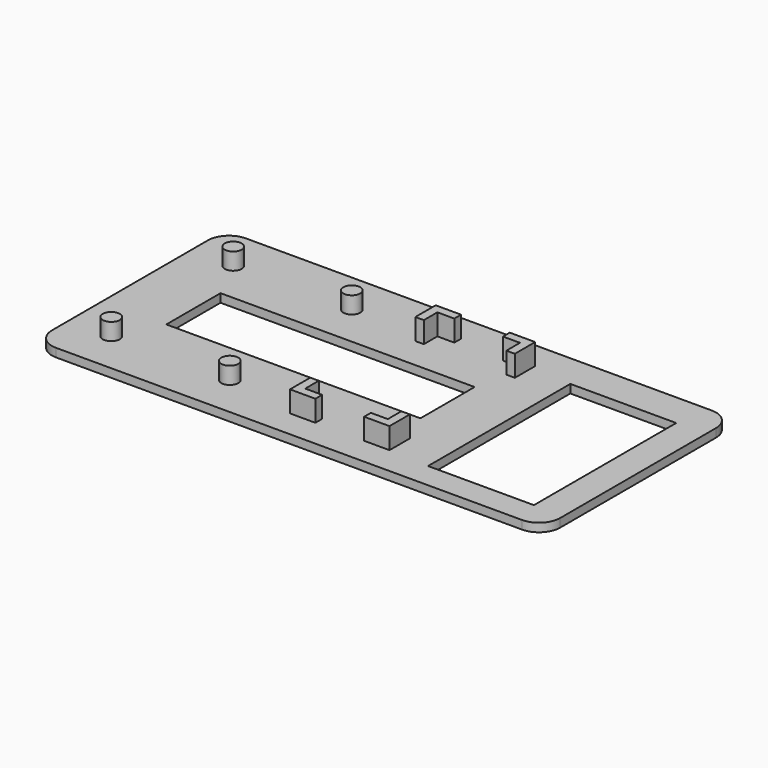
from build123d import *

# Parameters (mm, degrees)
PAD_DEPTH     = 2
SKETCH001_R   = 2
PAD001_DEPTH  = 4
PAD002_DEPTH  = 5
SKETCH003_W   = 60
SKETCH003_H   = 16
SKETCH003_W_2 = 25
SKETCH003_H_2 = 42
POCKET_DEPTH  = 2


with BuildPart() as part:
    # Sketch → Pad (new body)
    with BuildSketch(Plane.XY):
        with BuildLine():
            Line((5.000023, 0), (114.999975, 0))
            ThreePointArc((114.999975, 0), (118.535523, 1.464455), (120, 4.999992))
            Line((120, 4.999992), (120, 51.000008))
            ThreePointArc((120, 51.000008), (118.535523, 54.535545), (114.999975, 56))
            Line((5.000023, 56), (114.999975, 56))
            ThreePointArc((5.000023, 56), (1.464477, 54.535545), (0, 51.000008))
            Line((0, 51.000008), (0, 4.999992))
            ThreePointArc((0, 4.999992), (1.464477, 1.464455), (5.000023, 0))
        make_face()
    extrude(amount=PAD_DEPTH)

    # Sketch001 → Pad001 (new body)
    with BuildSketch(Plane.XY.offset(2)):
        with Locations((10, 46)):
            Circle(SKETCH001_R)
        with Locations((38, 46)):
            Circle(SKETCH001_R)
        with Locations((10, 10)):
            Circle(SKETCH001_R)
        with Locations((38, 10)):
            Circle(SKETCH001_R)
    extrude(amount=PAD001_DEPTH)

    # Sketch002 → Pad002 (new body)
    with BuildSketch(Plane.XY.offset(2)):
        Polygon((55, 43.5), (55, 49.5), (61, 49.5), (61, 47.5), (57, 47.5), (57, 43.5), align=None)
        Polygon((72.5, 47.5), (72.5, 49.5), (78.5, 49.5), (78.5, 43.5), (76.5, 43.5), (76.5, 47.5), align=None)
        Polygon((55, 12.5), (57, 12.5), (57, 8.5), (61, 8.5), (61, 6.5), (55, 6.5), align=None)
        Polygon((76.5, 12.5), (78.5, 12.5), (78.5, 6.5), (72.5, 6.5), (72.5, 8.5), (76.5, 8.5), align=None)
    extrude(amount=PAD002_DEPTH)

    # Sketch003 → Pocket (cut)
    with BuildSketch(Plane.XY.offset(2)):
        with Locations((45, 28)):
            Rectangle(SKETCH003_W, SKETCH003_H)
        with Locations((100.5, 27)):
            Rectangle(SKETCH003_W_2, SKETCH003_H_2)
    extrude(amount=-POCKET_DEPTH, mode=Mode.SUBTRACT)


solid = part.part
